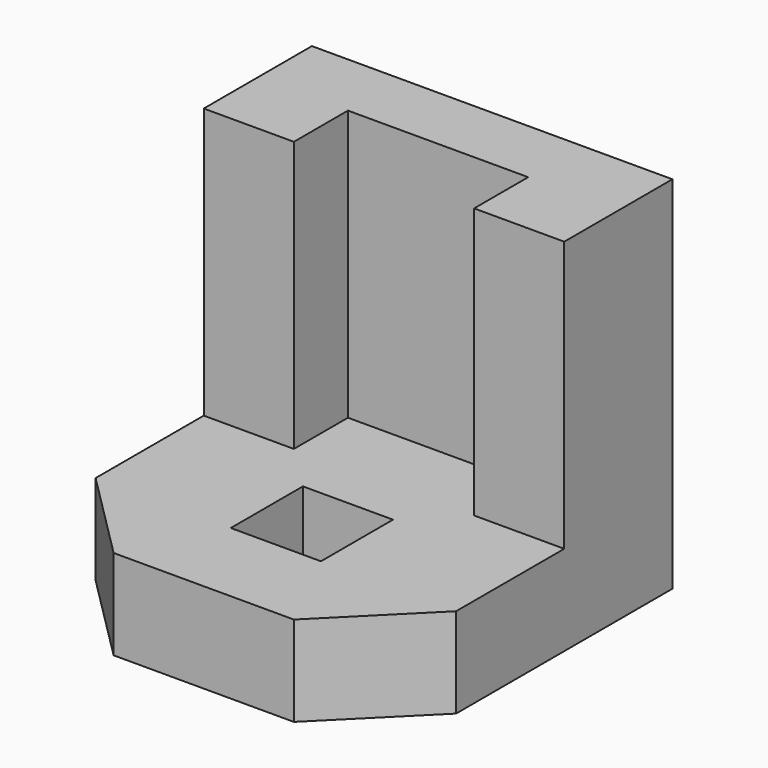
from build123d import *

# Parameters (mm, degrees)
F0_W     = 101.6
F0_H     = 101.6
F1_DEPTH = 101.6
F3_DEPTH = 76.2
F4_W     = 25.4
F4_H     = 25.4
F5_DEPTH = 25.4


with BuildPart() as f1:
    # F0 (on Top) → F1 (new body)
    with BuildSketch(Plane.XY):
        with Locations((-50.8, -50.8)):
            Rectangle(F0_W, F0_H)
    extrude(amount=F1_DEPTH)

    # F2 (on face) → F3 (cut)
    with BuildSketch(Plane.XY.offset(101.6)):
        Polygon((-25.4, -19.05), (-76.2, -19.05), (-76.2, -38.1), (-101.6, -38.1), (-101.6, -101.6), (0, -101.6), (0, -38.1), (-25.4, -38.1), align=None)
    extrude(amount=-F3_DEPTH, mode=Mode.SUBTRACT)

    # F4 (on face) → F5 (cut)
    with BuildSketch(Plane.XY.offset(25.4)):
        with Locations((-50.8, -63.5)):
            Rectangle(F4_W, F4_H)
        Polygon((0, -101.6), (0, -76.2), (-25.4, -101.6), align=None)
        Polygon((-76.2, -101.6), (-101.6, -76.2), (-101.6, -101.6), align=None)
    extrude(amount=-F5_DEPTH, mode=Mode.SUBTRACT)


solid = f1.part
